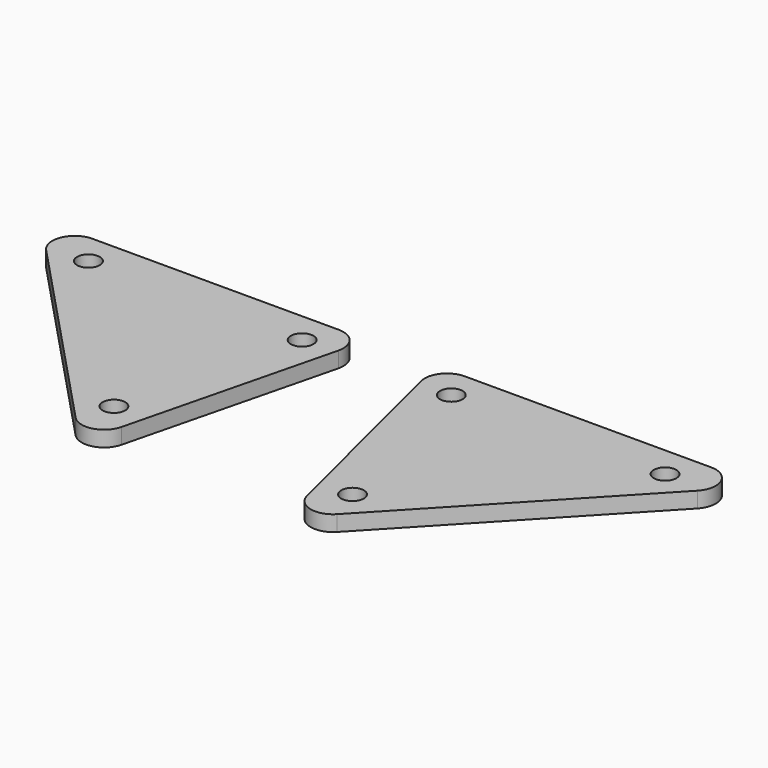
from build123d import *

# Parameters (mm, degrees)
F0_R     = 9.144
F1_DEPTH = 12.7
F2_R     = 18.034


with BuildPart() as f1:
    # F0 (on Top) → F1 (new body)
    with BuildSketch(Plane.XY):
        Polygon((83.156722, -116.20149), (292.210639, 105.608113), (27.853377, 105.608113), align=None)
        with Locations((96.556201, -64.9513)):
            Circle(F0_R, mode=Mode.SUBTRACT)
        with Locations((60.363894, 80.208113)):
            Circle(F0_R, mode=Mode.SUBTRACT)
        with Locations((233.367877, 80.208113)):
            Circle(F0_R, mode=Mode.SUBTRACT)
    extrude(amount=F1_DEPTH)

    # F2
    f2_edges = [f1.edges().sort_by_distance(p)[0] for p in [
        (83.156722, -116.20149, 6.35),
        (292.210639, 105.608113, 6.35),
        (27.853377, 105.608113, 6.35),
    ]]
    fillet(f2_edges, radius=F2_R)


with BuildPart() as f3_1:
    # F3: instance of F1
    add(f1.part.mirror(Plane.YZ))


solid = Compound([f1.part, f3_1.part])
